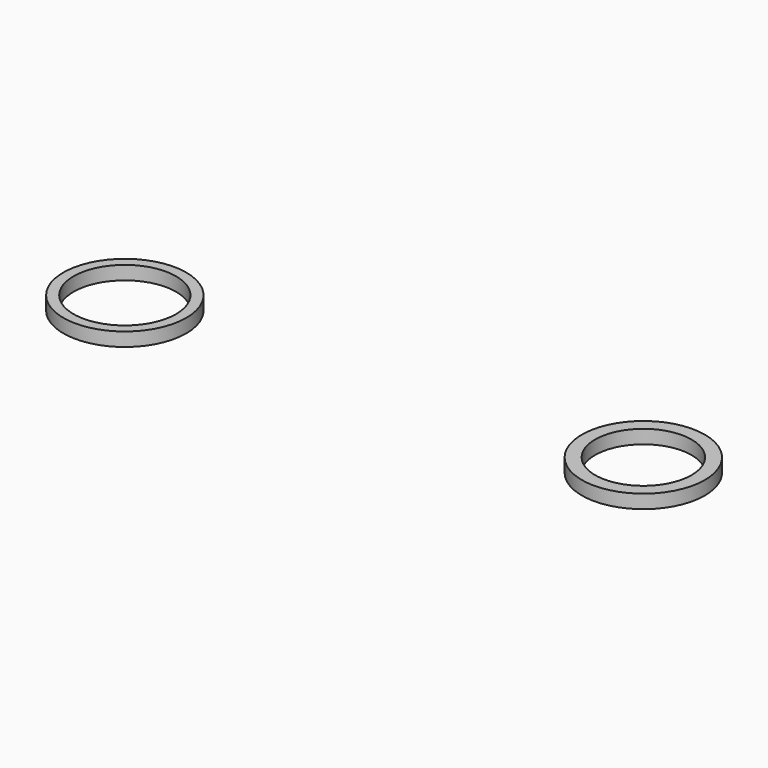
from build123d import *

# Parameters (mm, degrees)
F0_R     = 9
F0_R_2   = 7.503443
F1_DEPTH = 2
F0_R_3   = 7.060099
F2_DEPTH = 2


with BuildPart() as f1:
    # F0 (on Top) → F1 (new body)
    with BuildSketch(Plane.XY):
        with Locations((-23.522729, 27.954547)):
            Circle(F0_R)
        with Locations((-23.522729, 27.954547)):
            Circle(F0_R_2, mode=Mode.SUBTRACT)
    extrude(amount=F1_DEPTH)


with BuildPart() as f2:
    # F0 (on Top) → F2 (new body)
    with BuildSketch(Plane.XY):
        with Locations((47.840912, 33.636365)):
            Circle(F0_R)
        with Locations((47.840912, 33.636365)):
            Circle(F0_R_3, mode=Mode.SUBTRACT)
    extrude(amount=F2_DEPTH)


solid = Compound([f1.part, f2.part])
